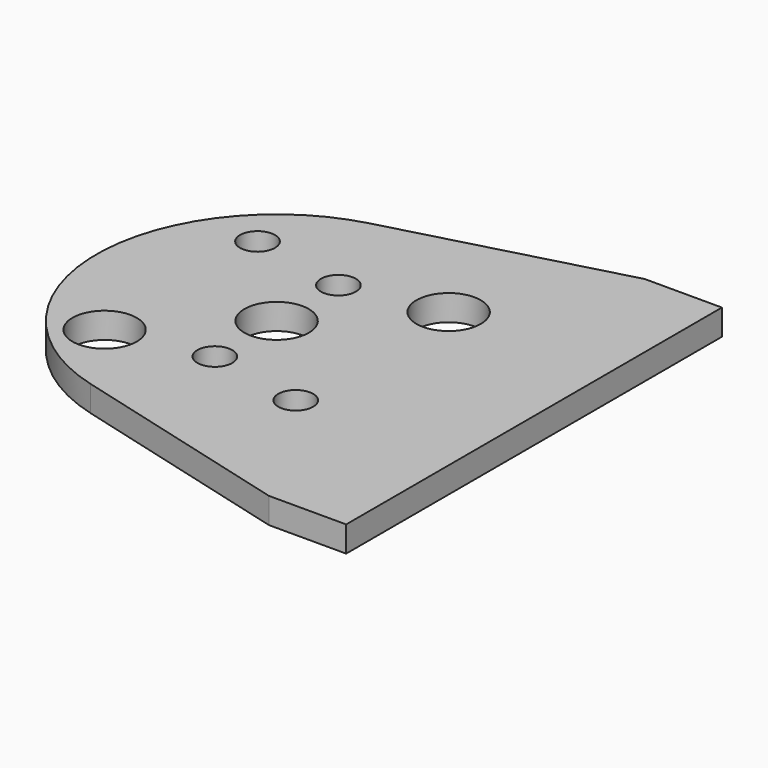
from build123d import *

# Parameters (mm, degrees)
F0_R     = 3.96875
F0_R_2   = 2.15265
F1_DEPTH = 3.175


with BuildPart() as f1:
    # F0 (on Top) → F1 (new body)
    with BuildSketch(Plane.XY):
        with BuildLine():
            Line((31.75, 28.964184), (22.225, 28.964184))
            Line((22.225, 28.964184), (-5.752253, 21.467701))
            ThreePointArc((-5.752253, 21.467701), (-22.225, 0), (-5.752253, -21.467701))
            Line((-5.752253, -21.467701), (22.225, -28.964184))
            Line((22.225, -28.964184), (31.75, -28.964184))
            Line((31.75, -28.964184), (31.75, 28.964184))
        make_face()
        with Locations((-11.786586, -11.786586)):
            Circle(F0_R, mode=Mode.SUBTRACT)
        with Locations((0, -9.525)):
            Circle(F0_R_2, mode=Mode.SUBTRACT)
        with Locations((11.786586, -11.786586)):
            Circle(F0_R_2, mode=Mode.SUBTRACT)
        with Locations((-11.786586, 11.786586)):
            Circle(F0_R_2, mode=Mode.SUBTRACT)
        Circle(F0_R, mode=Mode.SUBTRACT)
        with Locations((0, 9.525)):
            Circle(F0_R_2, mode=Mode.SUBTRACT)
        with Locations((11.786586, 11.786586)):
            Circle(F0_R, mode=Mode.SUBTRACT)
    extrude(amount=F1_DEPTH)


solid = f1.part
